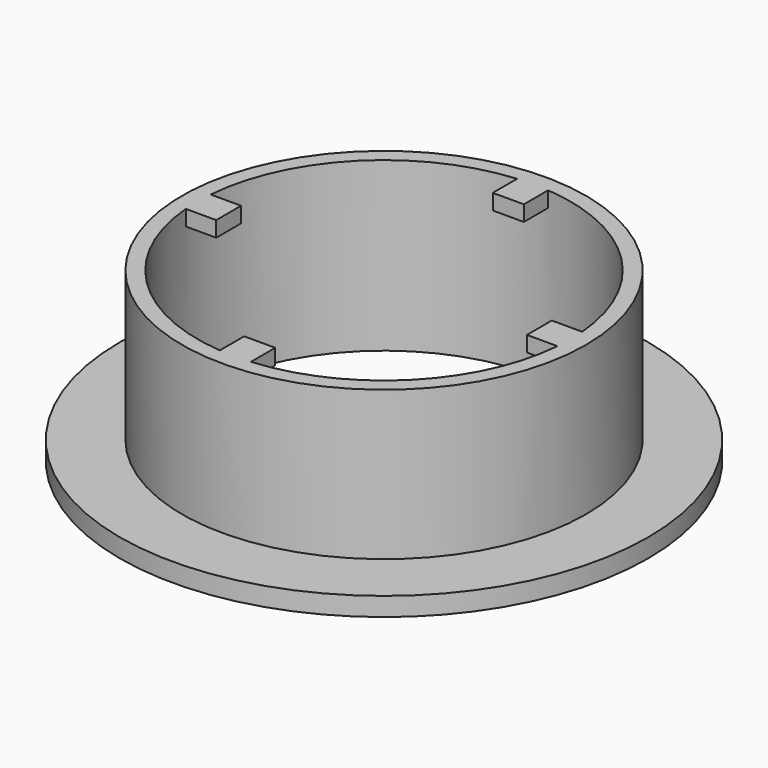
from build123d import *

# Parameters (mm, degrees)
F0_R     = 42.5
F0_R_2   = 32.5
F0_R_3   = 30
F1_DEPTH = 3
F2_DEPTH = 24
F4_DEPTH = 2.5


with BuildPart() as f1:
    # F0 (on Top) → F1 (new body)
    with BuildSketch(Plane.XY):
        Circle(F0_R)
        Circle(F0_R_2, mode=Mode.SUBTRACT)
        Circle(F0_R_2)
        Circle(F0_R_3, mode=Mode.SUBTRACT)
    extrude(amount=-F1_DEPTH)

    # F0 (on Top) → F2 (join)
    with BuildSketch(Plane.XY):
        Circle(F0_R_2)
        Circle(F0_R_3, mode=Mode.SUBTRACT)
    extrude(amount=F2_DEPTH)

    # F3 (on face) → F4 (join)
    with BuildSketch(Plane.XY.offset(24)):
        with BuildLine():
            Line((25, -2.5), (29.8956518578, -2.5))
            ThreePointArc((29.8956518578, -2.5), (29.9739016123, -1.2510883797), (30, 0))
            ThreePointArc((30, 0), (29.9739016123, 1.2510883797), (29.8956518578, 2.5))
            Line((29.8956518578, 2.5), (25, 2.5))
            Line((25, 2.5), (25, -2.5))
        make_face()
        with BuildLine():
            ThreePointArc((-30, 0), (-29.9739016123, -1.2510883797), (-29.8956518578, -2.5))
            Line((-29.8956518578, -2.5), (-25, -2.5))
            Line((-25, -2.5), (-25, 2.5))
            Line((-25, 2.5), (-29.8956518578, 2.5))
            ThreePointArc((-29.8956518578, 2.5), (-29.9739016123, 1.2510883797), (-30, 0))
        make_face()
        with BuildLine():
            Line((2.5, 25), (2.5, 29.8956518578))
            ThreePointArc((2.5, 29.8956518578), (1.2510883797, 29.9739016123), (0, 30))
            ThreePointArc((0, 30), (-1.2510883797, 29.9739016123), (-2.5, 29.8956518578))
            Line((-2.5, 29.8956518578), (-2.5, 25))
            Line((-2.5, 25), (2.5, 25))
        make_face()
        with BuildLine():
            ThreePointArc((0, -30), (1.2510883797, -29.9739016123), (2.5, -29.8956518578))
            Line((2.5, -29.8956518578), (2.5, -25))
            Line((2.5, -25), (-2.5, -25))
            Line((-2.5, -25), (-2.5, -29.8956518578))
            ThreePointArc((-2.5, -29.8956518578), (-1.2510883797, -29.9739016123), (0, -30))
        make_face()
    extrude(amount=-F4_DEPTH)


solid = f1.part
